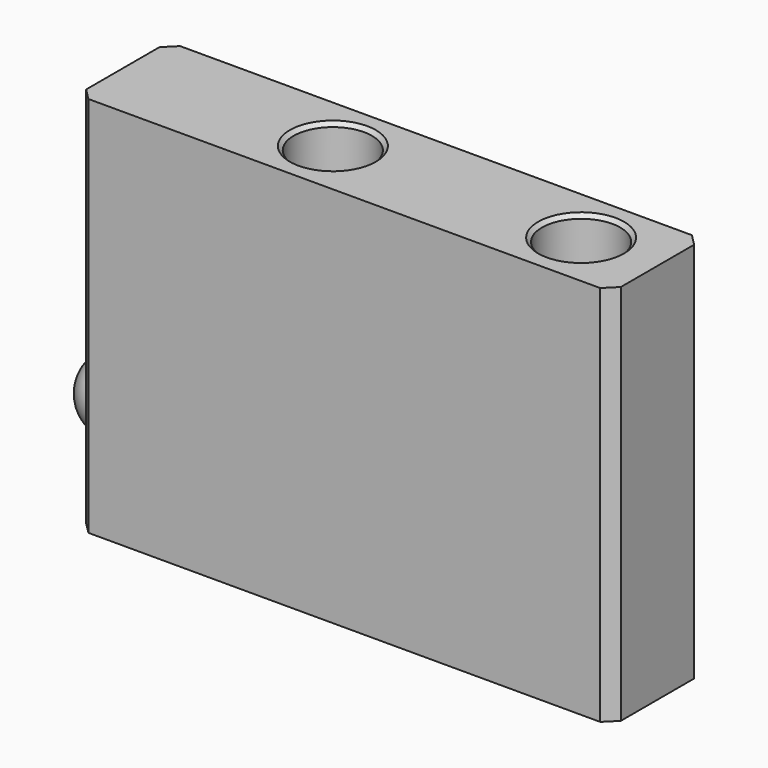
from build123d import *

# Parameters (mm, degrees)
SKETCH082_W     = 28
SKETCH082_H     = 6
SKETCH082_R     = 2.05
PAD047_DEPTH    = 20
SKETCH083_R     = 2.05
POCKET032_DEPTH = 7
SKETCH084_R     = 2
PAD048_DEPTH    = 2
FILLET022_R     = 1.99
CHAMFER027_SIZE = 0.6
CHAMFER028_SIZE = 0.2


with BuildPart() as part:
    # Sketch082 → Pad047 (new body)
    with BuildSketch(Plane.XY):
        with Locations((-4, 3)):
            Rectangle(SKETCH082_W, SKETCH082_H)
        with Locations((-7, 3)):
            Circle(SKETCH082_R, mode=Mode.SUBTRACT)
        with Locations((6, 3)):
            Circle(SKETCH082_R, mode=Mode.SUBTRACT)
    extrude(amount=PAD047_DEPTH)

    # Sketch083 (on Face2 of Pad047) → Pocket032 (cut)
    with BuildSketch(Plane(origin=(-18, 0, 0), x_dir=(0, -1, 0), z_dir=(-1, 0, 0))):
        with Locations((-3, 15)):
            Circle(SKETCH083_R)
    extrude(amount=-POCKET032_DEPTH, mode=Mode.SUBTRACT)

    # Sketch084 (on Face3 of Pocket032) → Pad048 (join)
    with BuildSketch(Plane(origin=(-18, 0, 0), x_dir=(0, -1, 0), z_dir=(-1, 0, 0))):
        with Locations((-3, 5)):
            Circle(SKETCH084_R)
    extrude(amount=PAD048_DEPTH)

    # Fillet022
    fillet022_edges = [part.edges().sort_by_distance(p)[0] for p in [
        (-20, 5, 5),
    ]]
    fillet(fillet022_edges, radius=FILLET022_R)

    # Chamfer027
    chamfer027_edges = [part.edges().sort_by_distance(p)[0] for p in [
        (10, 0, 10),
        (10, 6, 10),
        (-18, 0, 10),
        (-18, 6, 10),
    ]]
    chamfer(chamfer027_edges, length=CHAMFER027_SIZE)

    # Chamfer028
    chamfer028_edges = [part.edges().sort_by_distance(p)[0] for p in [
        (-9.05, 3, 20),
        (3.95, 3, 20),
        (-9.05, 3, 0),
        (3.95, 3, 0),
        (-18, 5.05, 15),
    ]]
    chamfer(chamfer028_edges, length=CHAMFER028_SIZE)


with BuildPart() as part_1:
    # Body039 placement: moved
    add(part.part.moved(Location((-2e-06, 0, 13.5))))


solid = part_1.part
